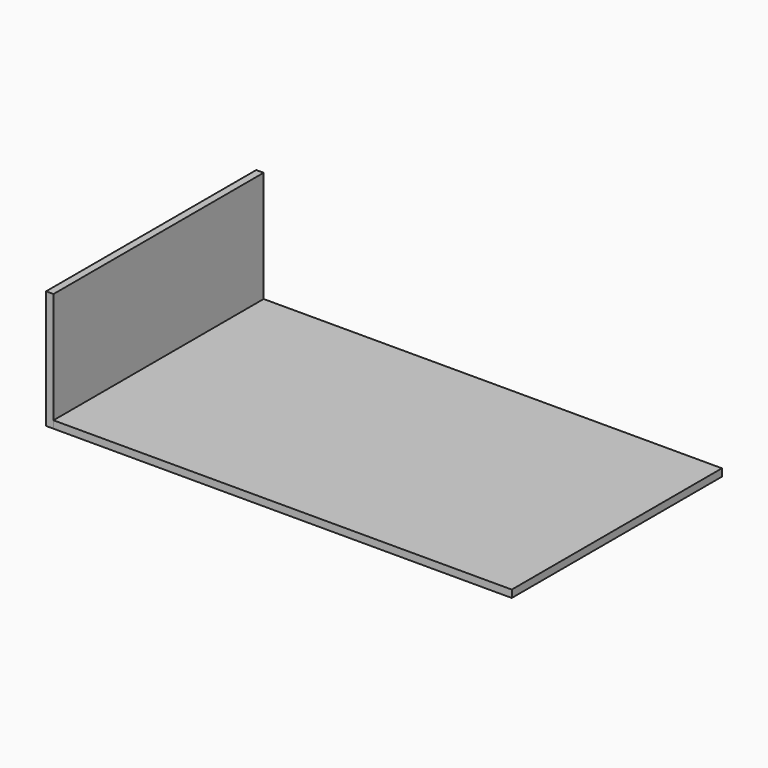
from build123d import *

# Parameters (mm, degrees)
F0_W     = 196.38483
F0_H     = 112.572212
F1_DEPTH = 3.175
F3_DEPTH = 50.8


with BuildPart() as f1:
    # F0 (on Top) → F1 (new body)
    with BuildSketch(Plane.XY):
        with Locations((1.703792, 0.116294)):
            Rectangle(F0_W, F0_H)
    extrude(amount=F1_DEPTH)


with BuildPart() as f3:
    # F2 (on Top) → F3 (new body)
    with BuildSketch(Plane.XY):
        Polygon((-96.488298, 56.402445), (-99.663298, 56.402445), (-99.663298, -56.169771), (-96.488588, -56.169771), align=None)
    extrude(amount=F3_DEPTH)


solid = Compound([f1.part, f3.part])
